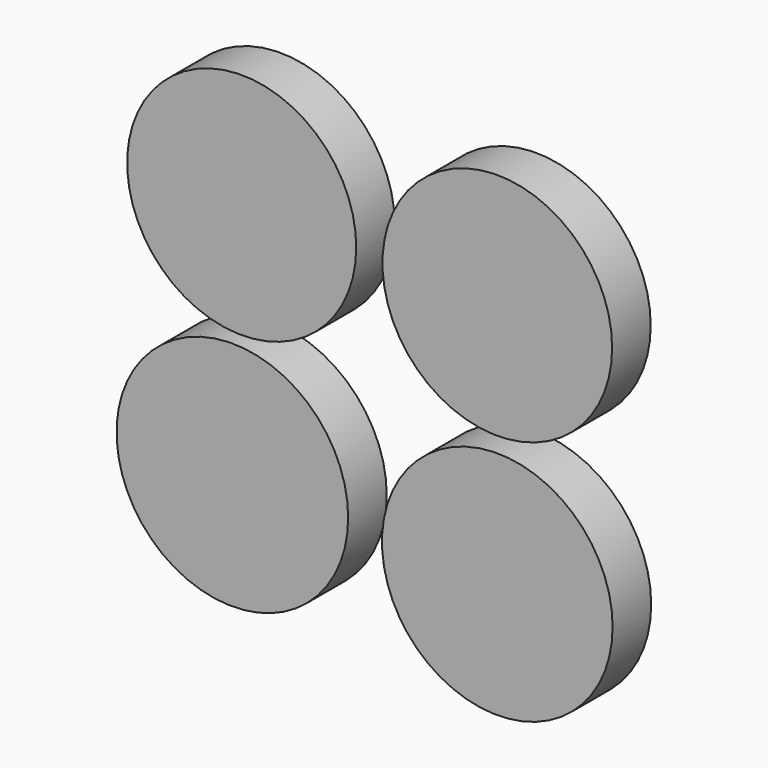
from build123d import *

# Parameters (mm, degrees)
F0_R     = 30.1498
F0_R_2   = 30.48
F0_R_3   = 30.226
F0_R_4   = 30.353
F1_DEPTH = 12.7


with BuildPart() as f1:
    # F0 (on Front) → F1 (new body)
    with BuildSketch(Plane.XZ):
        with Locations((-67.281134, 41.621365)):
            Circle(F0_R)
        with Locations((-69.738518, -21.714962)):
            Circle(F0_R_2)
        with Locations((0, 40.256064)):
            Circle(F0_R_3)
        with Locations((0, -24.364225)):
            Circle(F0_R_4)
    extrude(amount=F1_DEPTH)


solid = f1.part
